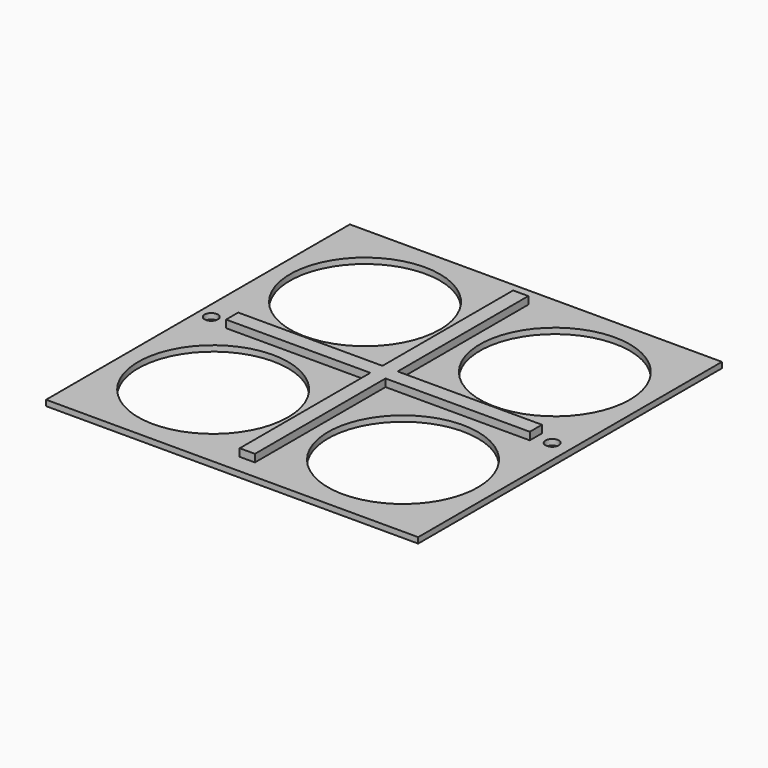
from build123d import *

# Parameters (mm, degrees)
SKETCH_W        = 196
SKETCH_H        = 200
PAD_DEPTH       = 3
SKETCH001_R     = 39.5
POCKET_DEPTH    = 5
SKETCH002_R     = 3.5
POCKET001_DEPTH = 5
SKETCH003_W     = 8
SKETCH003_H     = 180
PAD001_DEPTH    = 4
SKETCH004_W     = 160
SKETCH004_H     = 8
PAD002_DEPTH    = 4


with BuildPart() as part:
    # Sketch → Pad (new body)
    with BuildSketch(Plane.XY):
        Rectangle(SKETCH_W, SKETCH_H)
    extrude(amount=PAD_DEPTH)

    # Sketch001 (on Face6 of Pad) → Pocket (cut)
    with BuildSketch(Plane.XY.offset(3)):
        with Locations((-50, 50)):
            Circle(SKETCH001_R)
        with Locations((50, 50)):
            Circle(SKETCH001_R)
        with Locations((50, -50)):
            Circle(SKETCH001_R)
        with Locations((-50, -50)):
            Circle(SKETCH001_R)
    extrude(amount=-POCKET_DEPTH, mode=Mode.SUBTRACT)

    # Sketch002 (on Face5 of Pocket) → Pocket001 (cut)
    with BuildSketch(Plane.XY.offset(3)):
        with Locations((-91, 0)):
            Circle(SKETCH002_R)
        with Locations((88.593941, 0)):
            Circle(SKETCH002_R)
    extrude(amount=-POCKET001_DEPTH, mode=Mode.SUBTRACT)

    # Sketch003 (on Face5 of Pocket001) → Pad001 (join)
    with BuildSketch(Plane.XY.offset(3)):
        Rectangle(SKETCH003_W, SKETCH003_H)
    extrude(amount=PAD001_DEPTH)

    # Sketch004 (on Face5 of Pad001) → Pad002 (join)
    with BuildSketch(Plane.XY.offset(3)):
        Rectangle(SKETCH004_W, SKETCH004_H)
    extrude(amount=PAD002_DEPTH)


solid = part.part
